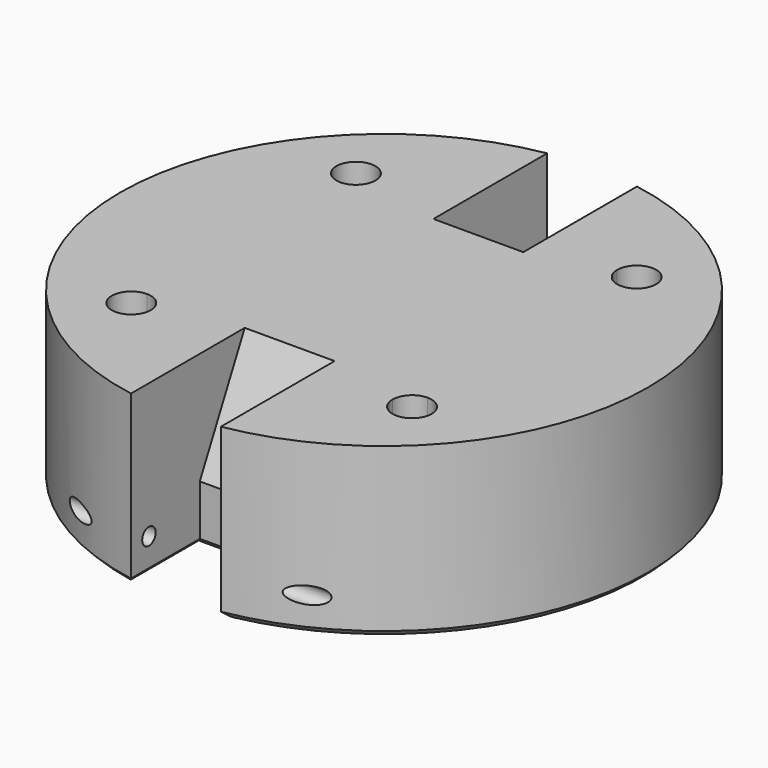
from build123d import *

# Parameters (mm, degrees)
F0_R      = 23.5
F1_DEPTH  = 15
F3_DEPTH  = 25
F4_SIZE2  = 5
F4_SIZE   = 10
F5_SIZE2  = 5
F5_SIZE   = 10
F7_R      = 0.75
F8_DEPTH  = 12.5
F11_DEPTH = 5
F12_SIZE  = 0.5


with BuildPart() as f1:
    # F0 (on Top) → F1 (new body)
    with BuildSketch(Plane.XY):
        Circle(F0_R)
    extrude(amount=F1_DEPTH)

    # F2 (on face) → F3 (cut)
    with BuildSketch(Plane(origin=(0, 0, 0), x_dir=(1, 0, 0), z_dir=(0, 0, -1))):
        with BuildLine():
            ThreePointArc((0, -23.5), (-2.007337, -23.414111), (-4, -23.157072))
            Line((-4, -23.157072), (-4, -23.5))
            Line((-4, -23.5), (0, -23.5))
        make_face()
        with BuildLine():
            Line((4, -23.5), (4, -23.157072))
            ThreePointArc((4, -23.157072), (2.007337, -23.414111), (0, -23.5))
            Line((0, -23.5), (4, -23.5))
        make_face()
        with BuildLine():
            Line((-4, -15.5), (-4, -23.157072))
            ThreePointArc((-4, -23.157072), (-2.007337, -23.414111), (0, -23.5))
            Line((0, -23.5), (0, -15.5))
            Line((0, -15.5), (-4, -15.5))
        make_face()
        with BuildLine():
            ThreePointArc((0, -23.5), (2.007337, -23.414111), (4, -23.157072))
            Line((4, -23.157072), (4, -15.5))
            Line((4, -15.5), (0, -15.5))
            Line((0, -15.5), (0, -23.5))
        make_face()
        with BuildLine():
            ThreePointArc((4, 23.157072), (2.007337, 23.414111), (0, 23.5))
            Line((0, 23.5), (0, 15.5))
            Line((0, 15.5), (4, 15.5))
            Line((4, 15.5), (4, 23.157072))
        make_face()
        with BuildLine():
            Line((0, 15.5), (0, 23.5))
            ThreePointArc((0, 23.5), (-2.007337, 23.414111), (-4, 23.157072))
            Line((-4, 23.157072), (-4, 15.5))
            Line((-4, 15.5), (0, 15.5))
        make_face()
        with BuildLine():
            Line((4, 23.5), (0, 23.5))
            ThreePointArc((0, 23.5), (2.007337, 23.414111), (4, 23.157072))
            Line((4, 23.157072), (4, 23.5))
        make_face()
        with BuildLine():
            ThreePointArc((-4, 23.157072), (-2.007337, 23.414111), (0, 23.5))
            Line((0, 23.5), (-4, 23.5))
            Line((-4, 23.5), (-4, 23.157072))
        make_face()
    extrude(amount=-F3_DEPTH, mode=Mode.SUBTRACT)

    # F4
    f4_edges = [f1.edges().sort_by_distance(p)[0] for p in [
        (0, -15.5, 15),
    ]]
    chamfer(f4_edges, length=F4_SIZE, length2=F4_SIZE2)

    # F5
    f5_edges = [f1.edges().sort_by_distance(p)[0] for p in [
        (0, 15.5, 15),
    ]]
    chamfer(f5_edges, length=F5_SIZE, length2=F5_SIZE2)

    # F7 (on Right) → F8 (cut, symmetric)
    with BuildSketch(Plane.YZ):
        with Locations((-21.157072, 3)):
            Circle(F7_R)
        with Locations((21.157072, 3)):
            Circle(F7_R)
    extrude(amount=F8_DEPTH, both=True, mode=Mode.SUBTRACT)

    # F10 (on face) → F11 (cut)
    with BuildSketch(Plane.XY.offset(15)):
        with BuildLine():
            ThreePointArc((-12.5, 10.763446), (-11.272071, 11.272071), (-10.763446, 12.5))
            Line((-10.763446, 12.5), (-12.5, 12.5))
            Line((-12.5, 12.5), (-12.5, 10.763446))
        make_face()
        with BuildLine():
            Line((-12.5, 12.5), (-10.763446, 12.5))
            ThreePointArc((-10.763446, 12.5), (-13.727929, 13.727929), (-12.5, 10.763446))
            Line((-12.5, 10.763446), (-12.5, 12.5))
        make_face()
        with BuildLine():
            ThreePointArc((-10.763446, -12.5), (-11.272071, -11.272071), (-12.5, -10.763446))
            Line((-12.5, -10.763446), (-12.5, -12.5))
            Line((-12.5, -12.5), (-10.763446, -12.5))
        make_face()
        with BuildLine():
            Line((-12.5, -12.5), (-12.5, -10.763446))
            ThreePointArc((-12.5, -10.763446), (-13.727929, -13.727929), (-10.763446, -12.5))
            Line((-10.763446, -12.5), (-12.5, -12.5))
        make_face()
        with BuildLine():
            Line((12.5, -12.5), (12.5, -10.763446))
            ThreePointArc((12.5, -10.763446), (11.272071, -11.272071), (10.763446, -12.5))
            Line((10.763446, -12.5), (12.5, -12.5))
        make_face()
        with BuildLine():
            Line((12.5, 12.5), (10.763446, 12.5))
            ThreePointArc((10.763446, 12.5), (11.272071, 11.272071), (12.5, 10.763446))
            Line((12.5, 10.763446), (12.5, 12.5))
        make_face()
        with BuildLine():
            ThreePointArc((14.236554, 12.5), (12.5, 14.236554), (10.763446, 12.5))
            Line((10.763446, 12.5), (12.5, 12.5))
            Line((12.5, 12.5), (12.5, 10.763446))
            ThreePointArc((12.5, 10.763446), (13.727929, 11.272071), (14.236554, 12.5))
        make_face()
        with BuildLine():
            ThreePointArc((14.236554, -12.5), (13.727929, -11.272071), (12.5, -10.763446))
            Line((12.5, -10.763446), (12.5, -12.5))
            Line((12.5, -12.5), (10.763446, -12.5))
            ThreePointArc((10.763446, -12.5), (12.5, -14.236554), (14.236554, -12.5))
        make_face()
    extrude(amount=-F11_DEPTH, mode=Mode.SUBTRACT)

    # F12
    f12_edges = [f1.edges().sort_by_distance(p)[0] for p in [
        (23.5, 0, 0),
        (4, 19.328536, 0),
        (0, 15.5, 0),
        (-4, 19.328536, 0),
        (-23.5, 0, 0),
        (-4, -19.328536, 0),
        (0, -15.5, 0),
        (4, -19.328536, 0),
    ]]
    chamfer(f12_edges, length=F12_SIZE)


solid = f1.part
